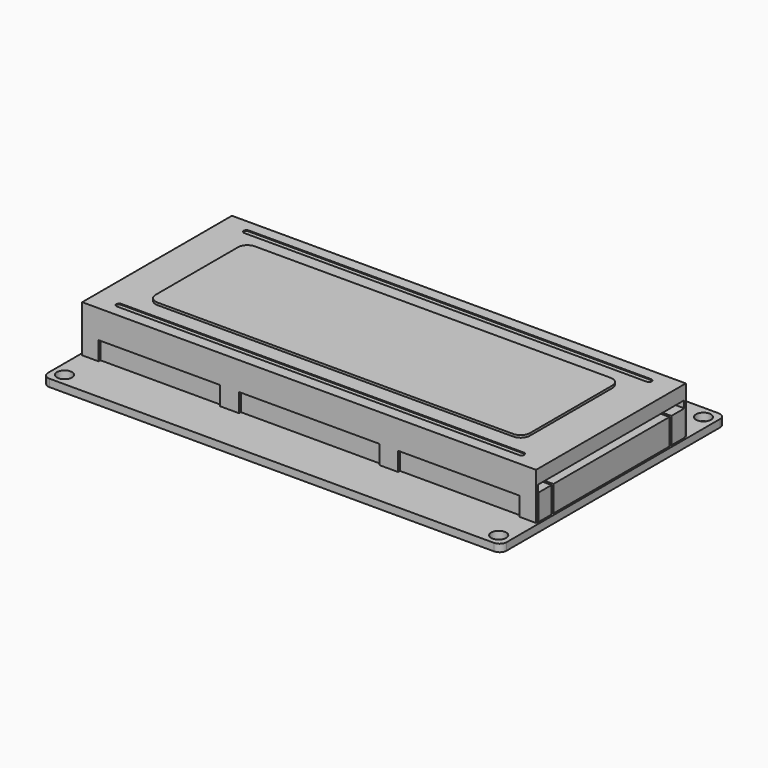
from build123d import *

# Parameters (mm, degrees)
SKETCH_W     = 98
SKETCH_H     = 60
SKETCH_R     = 1.6
SKETCH_R_2   = 0.5
PAD_DEPTH    = 1.6
FILLET_R     = 1.5
PAD001_DEPTH = 5.54
SKETCH003_W  = 97
SKETCH003_H  = 40
PAD002_DEPTH = 10
BOX_W        = 39
BOX_H        = 7
BOX_DEPTH    = 100
BOX001_W     = 26
BOX001_H     = 4
BOX001_DEPTH = 44
BOX002_W     = 30
BOX002_H     = 4
BOX002_DEPTH = 44
BOX003_W     = 26
BOX003_H     = 4
BOX003_DEPTH = 44
POCKET_DEPTH = 0.2
SKETCH005_W  = 80
SKETCH005_H  = 26
PAD003_DEPTH = 1
FILLET001_R  = 2


with BuildPart() as body:
    # Sketch → Pad (new body)
    with BuildSketch(Plane.XY):
        Rectangle(SKETCH_W, SKETCH_H)
        with Locations((-46.4, 27.35)):
            Circle(SKETCH_R, mode=Mode.SUBTRACT)
        with Locations((46.4, 27.35)):
            Circle(SKETCH_R, mode=Mode.SUBTRACT)
        with Locations((46.4, -27.35)):
            Circle(SKETCH_R, mode=Mode.SUBTRACT)
        with Locations((-46.4, -27.35)):
            Circle(SKETCH_R, mode=Mode.SUBTRACT)
        with Locations((-41, 28)):
            Circle(SKETCH_R_2, mode=Mode.SUBTRACT)
        with Locations((-38.46, 28)):
            Circle(SKETCH_R_2, mode=Mode.SUBTRACT)
        with Locations((-35.92, 28)):
            Circle(SKETCH_R_2, mode=Mode.SUBTRACT)
        with Locations((-33.38, 28)):
            Circle(SKETCH_R_2, mode=Mode.SUBTRACT)
        with Locations((-30.84, 28)):
            Circle(SKETCH_R_2, mode=Mode.SUBTRACT)
        with Locations((-28.3, 28)):
            Circle(SKETCH_R_2, mode=Mode.SUBTRACT)
        with Locations((-25.76, 28)):
            Circle(SKETCH_R_2, mode=Mode.SUBTRACT)
        with Locations((-20.68, 28)):
            Circle(SKETCH_R_2, mode=Mode.SUBTRACT)
        with Locations((-23.22, 28)):
            Circle(SKETCH_R_2, mode=Mode.SUBTRACT)
        with Locations((-18.14, 28)):
            Circle(SKETCH_R_2, mode=Mode.SUBTRACT)
        with Locations((-15.6, 28)):
            Circle(SKETCH_R_2, mode=Mode.SUBTRACT)
        with Locations((-13.06, 28)):
            Circle(SKETCH_R_2, mode=Mode.SUBTRACT)
        with Locations((-10.52, 28)):
            Circle(SKETCH_R_2, mode=Mode.SUBTRACT)
        with Locations((-7.98, 28)):
            Circle(SKETCH_R_2, mode=Mode.SUBTRACT)
        with Locations((-5.44, 28)):
            Circle(SKETCH_R_2, mode=Mode.SUBTRACT)
        with Locations((-2.9, 28)):
            Circle(SKETCH_R_2, mode=Mode.SUBTRACT)
    extrude(amount=-PAD_DEPTH)

    # Fillet
    fillet_edges = [body.edges().sort_by_distance(p)[0] for p in [
        (49, -30, -0.8),
        (-49, -30, -0.8),
        (49, 30, -0.8),
        (-49, 30, -0.8),
    ]]
    fillet(fillet_edges, radius=FILLET_R)


with BuildPart() as body001:
    # Sketch002 → Pad001 (new body)
    with BuildSketch(Plane.XY):
        Polygon((-48.6, 15.5), (-5, 15.5), (-5, 16), (-48.6, 16), (-48.6, 19.5), (48.6, 19.5), (48.6, 16), (5, 16), (5, 15.5), (48.6, 15.5), (48.6, -15.5), (5, -15.5), (5, -16), (48.6, -16), (48.6, -19.5), (-48.6, -19.5), (-48.6, -16), (-5, -16), (-5, -15.5), (-48.6, -15.5), align=None)
    extrude(amount=PAD001_DEPTH)


with BuildPart() as body002:
    # Sketch003 → Pad002 (new body)
    with BuildSketch(Plane.XY):
        Rectangle(SKETCH003_W, SKETCH003_H)
    extrude(amount=PAD002_DEPTH)

    # Box → Box (cut)
    with BuildSketch(Plane(origin=(-50, -19.5, 0), x_dir=(0, 1, 0), z_dir=(1, 0, 0))):
        with Locations((19.5, 3.5)):
            Rectangle(BOX_W, BOX_H)
    extrude(amount=BOX_DEPTH, mode=Mode.SUBTRACT)

    # Box001 → Box001 (cut)
    with BuildSketch(Plane(origin=(19, 22, 0), x_dir=(1, 0, 0), z_dir=(0, -1, 0))):
        with Locations((13, 2)):
            Rectangle(BOX001_W, BOX001_H)
    extrude(amount=BOX001_DEPTH, mode=Mode.SUBTRACT)

    # Box002 → Box002 (cut)
    with BuildSketch(Plane(origin=(-15, 22, 0), x_dir=(1, 0, 0), z_dir=(0, -1, 0))):
        with Locations((15, 2)):
            Rectangle(BOX002_W, BOX002_H)
    extrude(amount=BOX002_DEPTH, mode=Mode.SUBTRACT)

    # Box003 → Box003 (cut)
    with BuildSketch(Plane(origin=(-45, 22, 0), x_dir=(1, 0, 0), z_dir=(0, -1, 0))):
        with Locations((13, 2)):
            Rectangle(BOX003_W, BOX003_H)
    extrude(amount=BOX003_DEPTH, mode=Mode.SUBTRACT)

    # Sketch004 (on Face6 of Pad002) → Pocket (cut)
    with BuildSketch(Plane.XY.offset(10)):
        with BuildLine():
            ThreePointArc((-43, 17.6), (-43.6, 17), (-43, 16.4))
            Line((-43, 16.4), (43, 16.4))
            ThreePointArc((43, 16.4), (43.6, 17), (43, 17.6))
            Line((-43, 17.6), (43, 17.6))
        make_face()
    pocket = extrude(amount=-POCKET_DEPTH, mode=Mode.SUBTRACT)

    # Mirrored: Pocket across XZ
    add(pocket.mirror(Plane.XZ), mode=Mode.SUBTRACT)


with BuildPart() as body003:
    # Sketch005 → Pad003 (new body)
    with BuildSketch(Plane.XY):
        Rectangle(SKETCH005_W, SKETCH005_H)
    extrude(amount=PAD003_DEPTH)

    # Fillet001
    fillet001_edges = [body003.edges().sort_by_distance(p)[0] for p in [
        (40, 13, 0.5),
        (40, -13, 0.5),
        (-40, 13, 0.5),
        (-40, -13, 0.5),
    ]]
    fillet(fillet001_edges, radius=FILLET001_R)


with BuildPart() as body003_1:
    # Body003 placement: moved
    add(body003.part.moved(Location((0, 0, 9.5))))


solid = Compound([body.part, body001.part, body002.part, body003_1.part])
